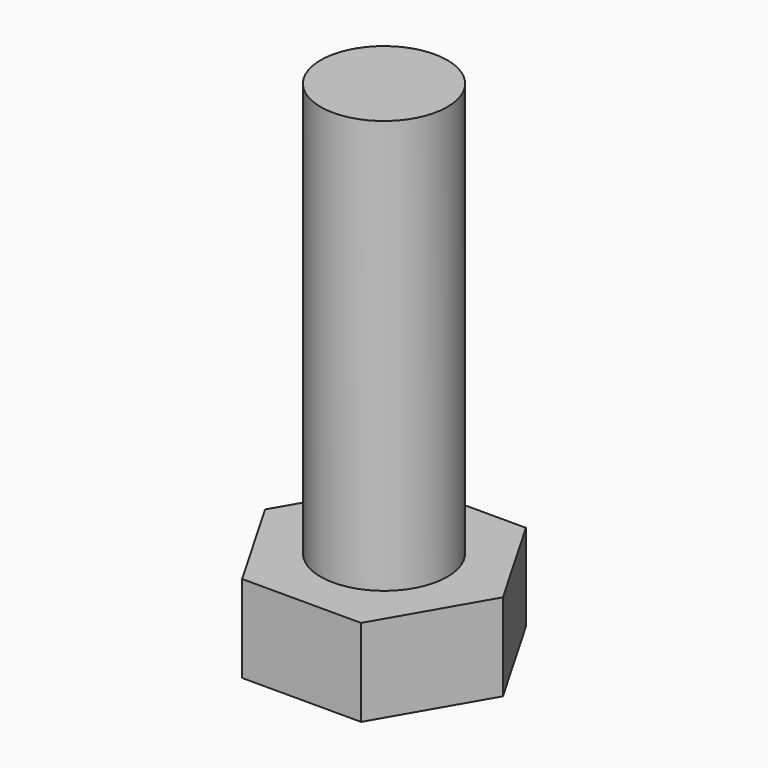
from build123d import *

# Parameters (mm, degrees)
PAD002_DEPTH = 5.5
SKETCH005_R  = 4
PAD003_DEPTH = 26.1


with BuildPart() as part:
    # Sketch004 → Pad002 (new body)
    with BuildSketch(Plane.XY):
        Polygon((7.5055534995, 0), (3.7527767497, 6.5), (-3.7527767497, 6.5), (-7.5055534995, 0), (-3.7527767497, -6.5), (3.7527767497, -6.5), align=None)
    extrude(amount=PAD002_DEPTH)

    # Sketch005 (on Face8 of Pad002) → Pad003 (join)
    with BuildSketch(Plane.XY.offset(5.5)):
        Circle(SKETCH005_R)
    extrude(amount=PAD003_DEPTH)

    # Sketch006 → Groove (revolve, cut)
    with BuildSketch(Plane.XZ):
        Polygon((4, 31.6), (4.5, 31.6), (4, 31.1), align=None)
        Polygon((7.5055534995, 0), (6.3055534995, 0), (7.5055534995, -0.5), align=None)
        Polygon((7.5055534995, 5.5), (6.3055534995, 5.5), (7.5055534995, 6), align=None)
    revolve(axis=Axis((0, 0, 0), (0, 0, 1)), mode=Mode.SUBTRACT)


solid = part.part
